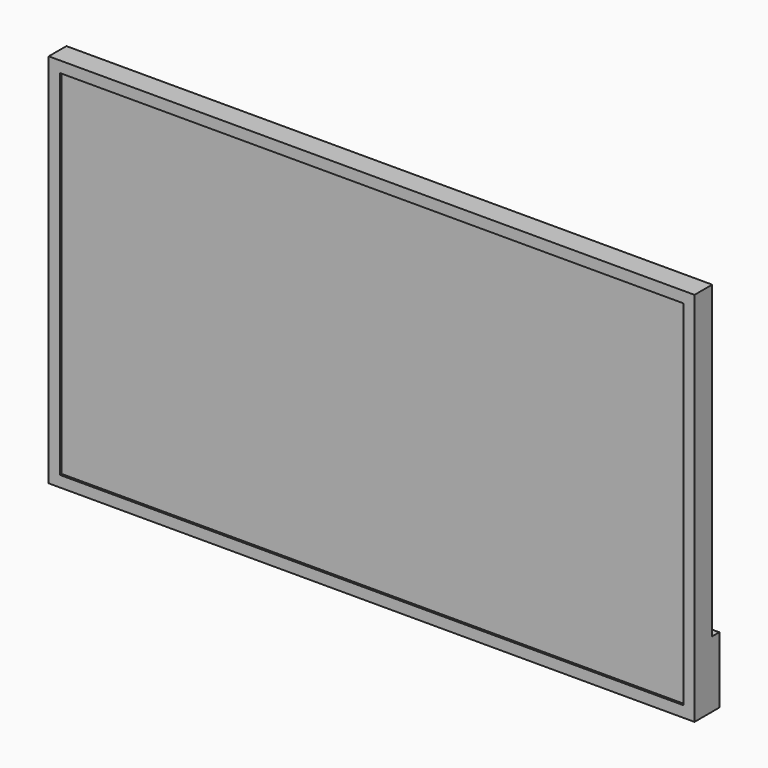
from build123d import *

# Parameters (mm, degrees)
F0_W     = 1460
F0_H     = 850
F1_DEPTH = 50
F2_W     = 1410
F2_H     = 800
F3_DEPTH = 5
F5_D     = 6.3
F5_DEPTH = 5
F5_TIP   = 1.8927109499
F4_W     = 1460
F4_H     = 150
F6_DEPTH = 20


with BuildPart() as f1:
    # F0 (on Front) → F1 (new body)
    with BuildSketch(Plane.XZ):
        Rectangle(F0_W, F0_H)
    extrude(amount=F1_DEPTH)

    # F2 (on face) → F3 (cut)
    with BuildSketch(Plane.XZ.offset(50)):
        Rectangle(F2_W, F2_H)
    extrude(amount=-F3_DEPTH, mode=Mode.SUBTRACT)

    # F5
    with Locations(Plane(origin=(0, 0, 0), x_dir=(-1, 0, 0), z_dir=(0, 1, 0))):
        with Locations((-200, 200), (200, 200), (200, -200), (-200, -200)):
            Hole(F5_D / 2, depth=F5_DEPTH)
            with Locations((0, 0, -(F5_DEPTH + F5_TIP / 2))):  # 118° drill point
                Cone(0, F5_D / 2, F5_TIP, mode=Mode.SUBTRACT)

    # F4 (on face) → F6 (join)
    with BuildSketch(Plane(origin=(0, 0, 0), x_dir=(-1, 0, 0), z_dir=(0, 1, 0))):
        with Locations((0, -350)):
            Rectangle(F4_W, F4_H)
    extrude(amount=F6_DEPTH)


solid = f1.part
